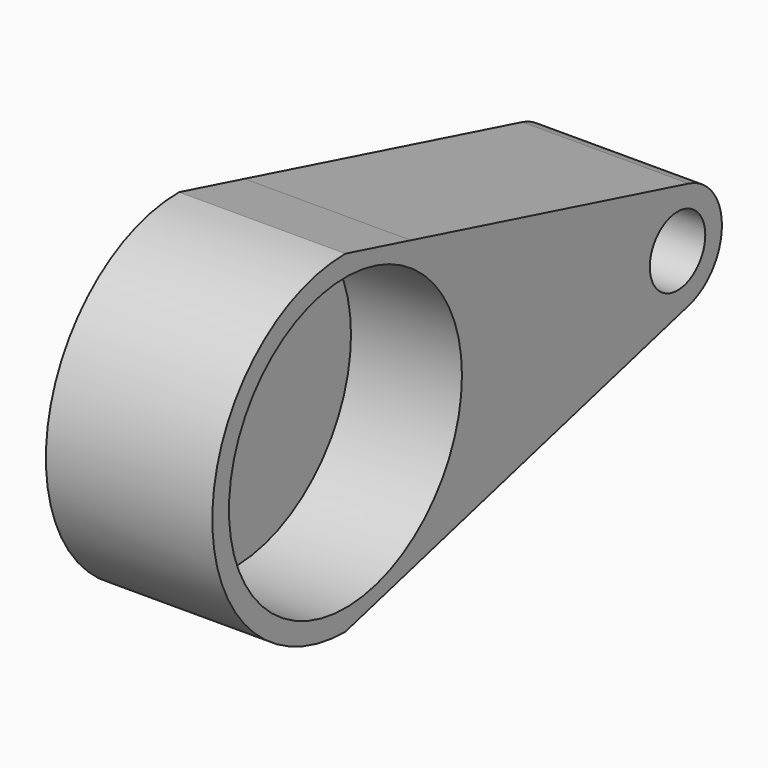
from build123d import *

# Parameters (mm, degrees)
F1_DEPTH = 76.2
F2_R     = 66.675
F2_R_2   = 15.875
F3_DEPTH = 50.8


with BuildPart() as f1:
    # F0 (on Right) → F1 (new body)
    with BuildSketch(Plane.YZ):
        with BuildLine():
            Line((37.4542024642, 66.3597974512), (0, 76.2))
            ThreePointArc((0, 76.2), (-76.2, 0), (0, -76.2))
            Line((0, -76.2), (37.4542024642, -66.3597974512))
            ThreePointArc((37.4542024642, -66.3597974512), (65.804446004, -38.4215419539), (76.2, 0))
            ThreePointArc((76.2, 0), (65.804446004, 38.4215419539), (37.4542024642, 66.3597974512))
        make_face()
        with BuildLine():
            Line((196.5304076289, 24.5663009536), (37.4542024642, 66.3597974512))
            ThreePointArc((37.4542024642, 66.3597974512), (65.804446004, 38.4215419539), (76.2, 0))
            ThreePointArc((76.2, 0), (65.804446004, -38.4215419539), (37.4542024642, -66.3597974512))
            Line((37.4542024642, -66.3597974512), (196.5304076289, -24.5663009536))
            ThreePointArc((196.5304076289, -24.5663009536), (164.6761952481, 0), (196.5304076289, 24.5663009536))
        make_face()
        with BuildLine():
            ThreePointArc((215.4761952481, 0), (210.1895862411, 15.5116569961), (196.5304076289, 24.5663009536))
            ThreePointArc((196.5304076289, 24.5663009536), (164.6761952481, 0), (196.5304076289, -24.5663009536))
            ThreePointArc((196.5304076289, -24.5663009536), (210.1895862411, -15.5116569961), (215.4761952481, 0))
        make_face()
    extrude(amount=F1_DEPTH)

    # F2 (on face) → F3 (cut)
    with BuildSketch(Plane.YZ.offset(76.2)):
        Circle(F2_R)
        with Locations((190.0761952481, 0)):
            Circle(F2_R_2)
    extrude(amount=-F3_DEPTH, mode=Mode.SUBTRACT)


solid = f1.part
